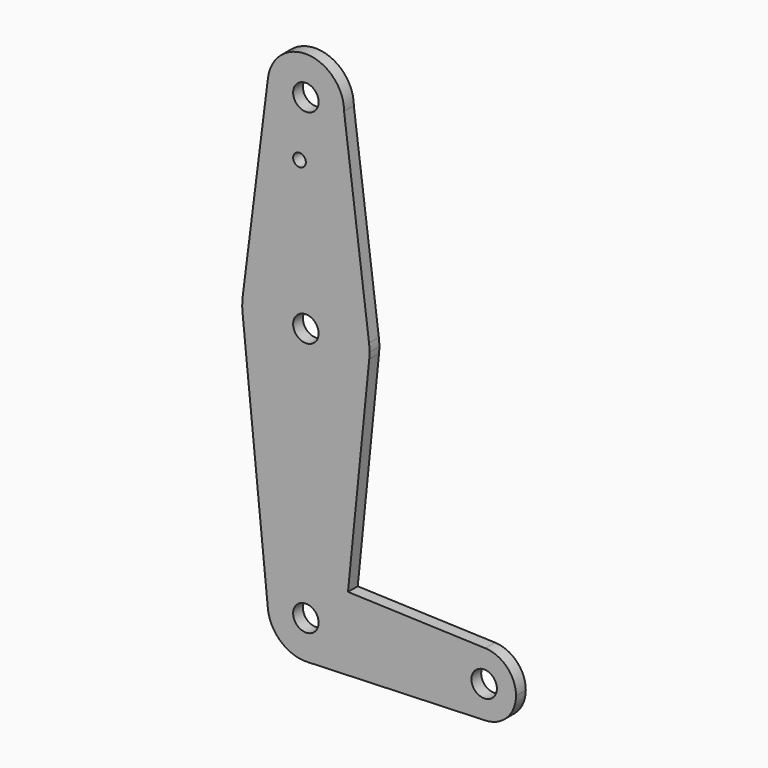
from build123d import *

# Parameters (mm, degrees)
F0_R     = 3.175
F0_R_2   = 1.5875
F1_DEPTH = 3.048


with BuildPart() as f1:
    # F0 (on Front) → F1 (new body)
    with BuildSketch(Plane.XZ):
        with BuildLine():
            ThreePointArc((-9.7904715356, 89.962704883), (-0.9366618134, 79.2657749888), (9.1848214286, 88.772079883))
            ThreePointArc((9.1848214286, 88.772079883), (0.2563046705, 98.2783847772), (-9.7904715356, 89.962704883))
        make_face()
        with Locations((-0.3401785714, 88.772079883)):
            Circle(F0_R, mode=Mode.SUBTRACT)
        with BuildLine():
            Line((15.4072783333, 39.9803692134), (9.1848214286, 88.772079883))
            ThreePointArc((9.1848214286, 88.772079883), (-0.9366618134, 79.2657749888), (-9.7904715356, 89.962704883))
            Line((-9.7904715356, 89.962704883), (-16.0906668451, 39.956454883))
            ThreePointArc((-16.0906668451, 39.956454883), (-0.3522314175, 53.8470753075), (15.4072783333, 39.9803692134))
        make_face()
        with Locations((-1.9276785714, 74.497279883)):
            Circle(F0_R_2, mode=Mode.SUBTRACT)
        with BuildLine():
            ThreePointArc((15.5348214286, 37.972079883), (15.5029035681, 38.9782475225), (15.4072783333, 39.9803692134))
            ThreePointArc((15.4072783333, 39.9803692134), (-0.3522314175, 53.8470753075), (-16.0906668451, 39.956454883))
            ThreePointArc((-16.0906668451, 39.956454883), (-16.2139223869, 38.1717853697), (-16.1356041355, 36.384579883))
            ThreePointArc((-16.1356041355, 36.384579883), (-0.3401785714, 22.097079883), (15.4552469926, 36.384579883))
            ThreePointArc((15.4552469926, 36.384579883), (15.5149153392, 37.1773333289), (15.5348214286, 37.972079883))
        make_face()
        with Locations((-0.3401785714, 37.972079883)):
            Circle(F0_R, mode=Mode.SUBTRACT)
        with BuildLine():
            ThreePointArc((15.4552469926, 36.384579883), (-0.3401785714, 22.097079883), (-16.1356041355, 36.384579883))
            Line((-16.1356041355, 36.384579883), (-9.8174339099, -26.480420117))
            ThreePointArc((-9.8174339099, -26.480420117), (-7.2888633534, -19.0132133085), (0, -16.0089966727))
            Line((0, -16.0089966727), (10.1530276685, -16.3718362803))
            Line((10.1530276685, -16.3718362803), (15.4552469926, 36.384579883))
        make_face()
        with BuildLine():
            ThreePointArc((0, -16.0089966727), (-7.2888633534, -19.0132133085), (-9.8174339099, -26.480420117))
            ThreePointArc((-9.8174339099, -26.480420117), (-6.6025619531, -32.7048400261), (0, -35.0468435614))
            ThreePointArc((0, -35.0468435614), (6.1745282371, -32.476604899), (9.137076767, -26.480420117))
            ThreePointArc((9.137076767, -26.480420117), (9.1728777749, -26.0047680495), (9.1848214286, -25.527920117))
            ThreePointArc((9.1848214286, -25.527920117), (6.5142297142, -18.9140927793), (0, -16.0089966727))
        make_face()
        with Locations((-0.3401785714, -25.527920117)):
            Circle(F0_R, mode=Mode.SUBTRACT)
        with BuildLine():
            Line((44.3933035714, -17.5954839134), (10.1530276685, -16.3718362803))
            Line((10.1530276685, -16.3718362803), (9.137076767, -26.480420117))
            ThreePointArc((9.137076767, -26.480420117), (6.1745282371, -32.476604899), (0, -35.0468435614))
            Line((0, -35.0468435614), (44.3933035714, -33.4603563206))
            ThreePointArc((44.3933035714, -33.4603563206), (36.1723214286, -25.527920117), (44.3933035714, -17.5954839134))
        make_face()
        with BuildLine():
            Line((9.137076767, -26.480420117), (10.1530276685, -16.3718362803))
            Line((10.1530276685, -16.3718362803), (0, -16.0089966727))
            ThreePointArc((0, -16.0089966727), (6.5142297142, -18.9140927793), (9.1848214286, -25.527920117))
            ThreePointArc((9.1848214286, -25.527920117), (9.1728777749, -26.0047680495), (9.137076767, -26.480420117))
        make_face()
        with BuildLine():
            ThreePointArc((52.0473214286, -25.527920117), (49.8218283333, -20.0163973356), (44.3933035714, -17.5954839134))
            ThreePointArc((44.3933035714, -17.5954839134), (36.1723214286, -25.527920117), (44.3933035714, -33.4603563206))
            ThreePointArc((44.3933035714, -33.4603563206), (49.8218283333, -31.0394428985), (52.0473214286, -25.527920117))
        make_face()
        with Locations((44.1098214286, -25.527920117)):
            Circle(F0_R, mode=Mode.SUBTRACT)
    extrude(amount=F1_DEPTH)


solid = f1.part
